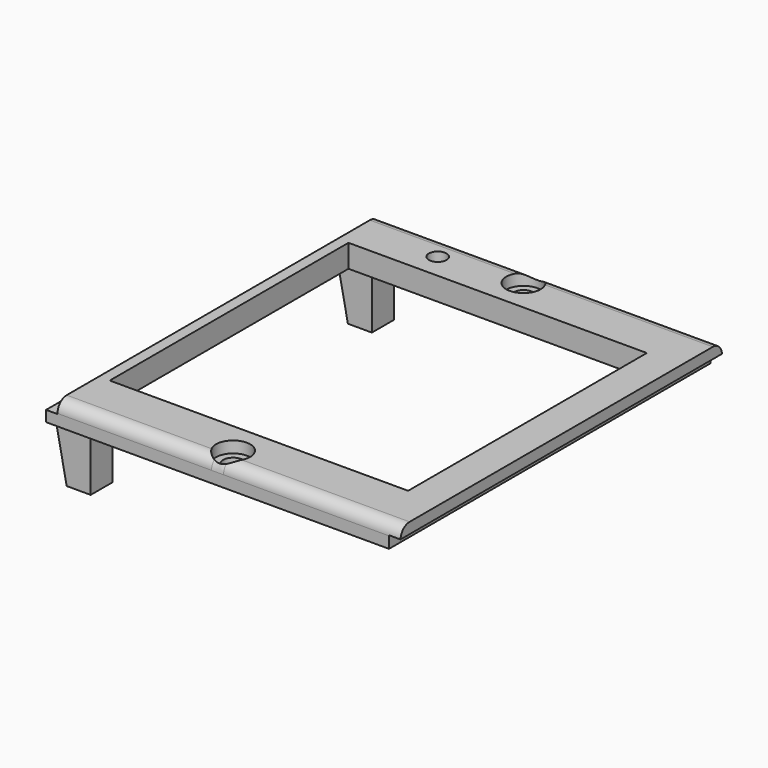
from build123d import *

# Parameters (mm, degrees)
SKETCH077_W          = 62
SKETCH077_H          = 70.3
SKETCH077_R          = 1.75
SKETCH077_R_2        = 1.55
SKETCH077_W_2        = 52.2
SKETCH077_H_2        = 52.2
PAD021_DEPTH         = 4
FILLET009_R          = 2
SKETCH078_W          = 2
SKETCH078_H          = 2.1
POCKET050_DEPTH      = 35.151
POCKET050_DEPTH_BACK = 35.151
SKETCH079_R          = 3
POCKET028_DEPTH      = 2.001
SKETCH081_W          = 4.202
SKETCH081_H          = 4.8
PAD023_DEPTH         = 10
CHAMFER003_SIZE2     = 9.99
CHAMFER003_SIZE      = 1.99


with BuildPart() as part:
    # Sketch077 → Pad021 (new body)
    with BuildSketch(Plane.XY):
        with Locations((1, 0)):
            Rectangle(SKETCH077_W, SKETCH077_H)
        with Locations((0, 31.75)):
            Circle(SKETCH077_R, mode=Mode.SUBTRACT)
        with Locations((0, -31.75)):
            Circle(SKETCH077_R, mode=Mode.SUBTRACT)
        with Locations((-14, 30.5)):
            Circle(SKETCH077_R_2, mode=Mode.SUBTRACT)
        Rectangle(SKETCH077_W_2, SKETCH077_H_2, mode=Mode.SUBTRACT)
    extrude(amount=PAD021_DEPTH)

    # Fillet009
    fillet009_edges = [part.edges().sort_by_distance(p)[0] for p in [
        (1, 35.15, 4),
        (1, -35.15, 4),
    ]]
    fillet(fillet009_edges, radius=FILLET009_R)

    # Sketch078 → Pocket050 (cut, two sides)
    with BuildSketch(Plane.XZ) as pocket050_sk:
        with Locations((-29, 2.95)):
            Rectangle(SKETCH078_W, SKETCH078_H)
        with Locations((31, 1.05)):
            Rectangle(SKETCH078_W, SKETCH078_H)
    extrude(amount=-POCKET050_DEPTH, mode=Mode.SUBTRACT)
    extrude(pocket050_sk.sketch, amount=POCKET050_DEPTH_BACK, mode=Mode.SUBTRACT)

    # Sketch079 → Pocket028 (cut, through all)
    with BuildSketch(Plane.XY.offset(2)):
        with Locations((0, -31.75)):
            Circle(SKETCH079_R)
        with Locations((0, 31.75)):
            Circle(SKETCH079_R)
    extrude(amount=POCKET028_DEPTH, mode=Mode.SUBTRACT)

    # Sketch081 → Pad023 (join)
    with BuildSketch(Plane.XY):
        with Locations((-25.899, 30.75)):
            Rectangle(SKETCH081_W, SKETCH081_H)
        with Locations((-25.899, -30.75)):
            Rectangle(SKETCH081_W, SKETCH081_H)
    extrude(amount=-PAD023_DEPTH)

    # Chamfer003
    chamfer003_edges = [part.edges().sort_by_distance(p)[0] for p in [
        (-28, 30.75, 0),
        (-28, -30.75, 0),
    ]]
    chamfer003_side = part.faces().sort_by_distance((-29.075766, 0, 0))[0]
    chamfer(chamfer003_edges, length=CHAMFER003_SIZE, length2=CHAMFER003_SIZE2, reference=chamfer003_side)


with BuildPart() as part_1:
    # Body052 placement: moved
    add(part.part.moved(Location((0, 0, 46))))


solid = part_1.part
